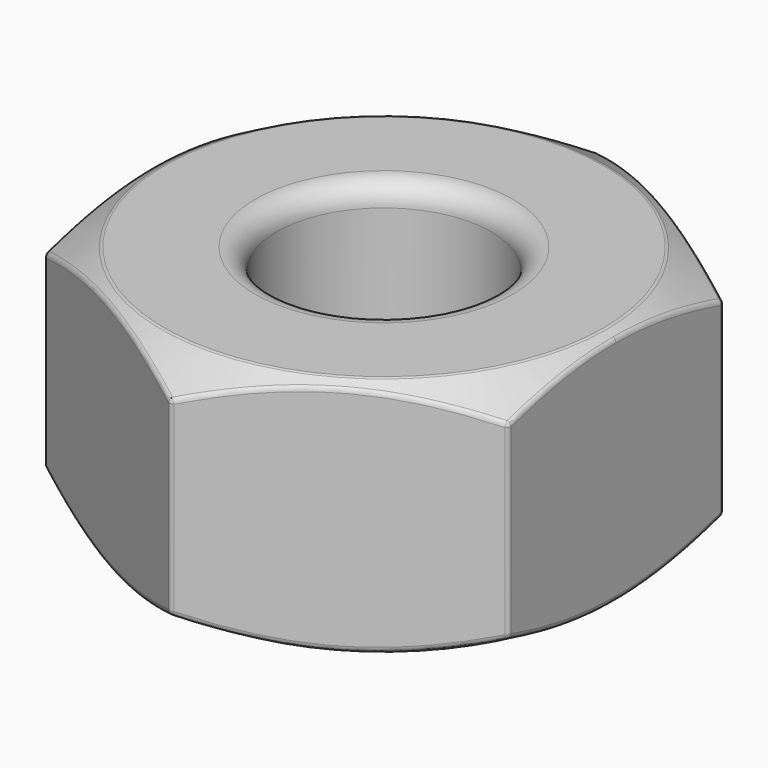
from build123d import *

# Parameters (mm, degrees)
F0_R     = 2.5273
F1_DEPTH = 2.8448
F4_R     = 0.508
F5_R     = 0.127


with BuildPart() as f1:
    # F0 (on Top) → F1 (new body, symmetric)
    with BuildSketch(Plane.XY):
        Polygon((5.461, -3.15291), (5.461, 3.15291), (0, 6.30582), (-5.461, 3.15291), (-5.461, -3.15291), (0, -6.30582), align=None)
        Circle(F0_R, mode=Mode.SUBTRACT)
    extrude(amount=F1_DEPTH, both=True)

    # F2 (on Front) → F3 (revolve, cut)
    with BuildSketch(Plane.XZ):
        Polygon((7.493, 2.8448), (5.207, 2.8448), (7.493, 1.524977), align=None)
        Polygon((7.493, -1.524977), (5.207, -2.8448), (7.493, -2.8448), align=None)
    revolve(axis=Axis((0, 0, 0.017228), (0, 0, -1)), mode=Mode.SUBTRACT)

    # F4
    f4_edges = [f1.edges().sort_by_distance(p)[0] for p in [
        (-2.5273, 0, 2.8448),
        (-2.5273, 0, -2.8448),
    ]]
    fillet(f4_edges, radius=F4_R)

    # F5
    f5_edges = [f1.edges().sort_by_distance(p)[0] for p in [
        (-5.207, 0, 2.8448),
        (0, -6.30582, 0),
        (2.7305, -4.729365, 2.698153),
        (5.461, -3.15291, 0),
        (2.7305, -4.729365, -2.698153),
        (-5.461, -3.15291, 0),
        (-2.7305, -4.729365, 2.698153),
        (-2.7305, -4.729365, -2.698153),
        (-5.461, 3.15291, 0),
        (-5.461, 0, 2.698153),
        (-5.461, 0, -2.698153),
        (0, 6.30582, 0),
        (-2.7305, 4.729365, 2.698153),
        (-2.7305, 4.729365, -2.698153),
        (5.461, 3.15291, 0),
        (2.7305, 4.729365, 2.698153),
        (2.7305, 4.729365, -2.698153),
        (5.461, -1.593459, 2.566674),
        (5.461, 1.593459, 2.566674),
        (5.461, 1.593459, -2.566674),
        (5.461, -1.593459, -2.566674),
    ]]
    fillet(f5_edges, radius=F5_R)


solid = f1.part
